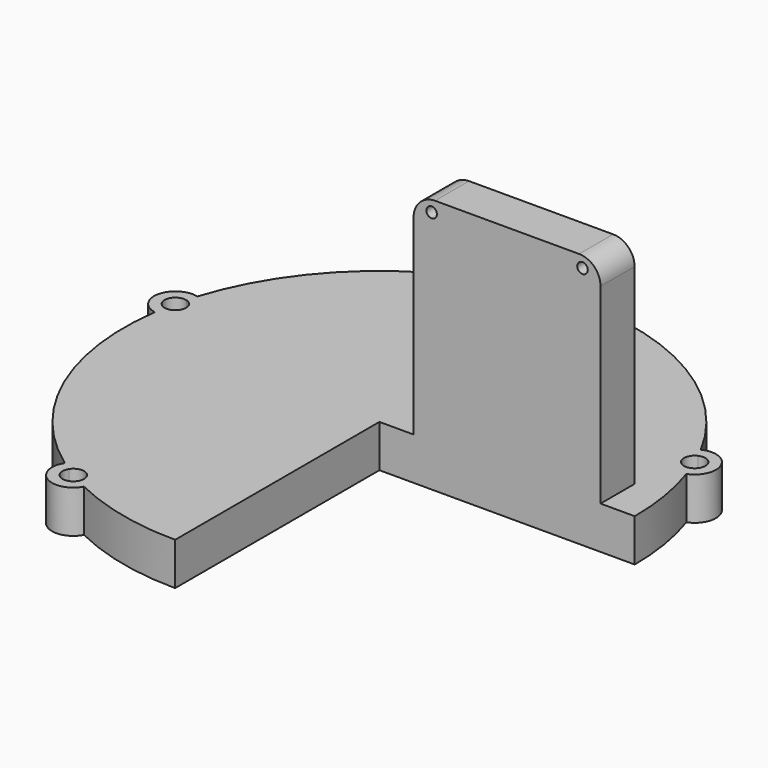
from build123d import *

# Parameters (mm, degrees)
F1_DEPTH = 3.175
F0_W     = 13.9460621893
F0_H     = 3.175
F2_DEPTH = 19.05
F4_R     = 1.6002
F5_D     = 0.7874


with BuildPart() as f1:
    # F0 (on Top) → F1 (new body)
    with BuildSketch(Plane.XY):
        with BuildLine():
            ThreePointArc((-11.0640807489, -15.5076954182), (-10.5456846438, -17.739643222), (-8.337274974, -17.1286994839))
            ThreePointArc((-8.337274974, -17.1286994839), (-8.6896408656, -16.9526588365), (-9.0382916673, -16.7693704037))
            ThreePointArc((-9.0382916673, -16.7693704037), (-10.1433262143, -17.0628076037), (-10.4134929787, -15.9518545625))
            ThreePointArc((-10.4134929787, -15.9518545625), (-10.7410829362, -15.7331381917), (-11.0640807489, -15.5076954182))
        make_face()
        with BuildLine():
            ThreePointArc((-18.1676837587, 5.7304246652), (-20.1301990553, 4.5476908695), (-18.8667209135, 2.6361604601))
            ThreePointArc((-18.8667209135, 2.6361604601), (-18.8081833575, 3.0256798892), (-18.7416047219, 3.4139057466))
            ThreePointArc((-18.7416047219, 3.4139057466), (-19.3621545375, 4.3741789717), (-18.3890615299, 4.9744262032))
            ThreePointArc((-18.3890615299, 4.9744262032), (-18.2822807642, 5.3535698425), (-18.1676837587, 5.7304246652))
        make_face()
        with BuildLine():
            ThreePointArc((-0.9515720679, 19.0262190306), (-0.557987968, 19.0418263154), (-0.1641653109, 19.0492926312))
            ThreePointArc((-0.1641653109, 19.0492926312), (-1.8954625727, 20.5502707497), (-3.3229998068, 18.757936248))
            ThreePointArc((-3.3229998068, 18.757936248), (-2.934455716, 18.8226318471), (-2.5446570546, 18.8792801895))
            ThreePointArc((-2.5446570546, 18.8792801895), (-1.8231433853, 19.7661988811), (-0.9515720679, 19.0262190306))
        make_face()
        with BuildLine():
            ThreePointArc((17.8009576491, 6.7844238351), (17.9374252347, 6.4149260284), (18.0662240168, 6.0426856425))
            ThreePointArc((18.0662240168, 6.0426856425), (18.958738761, 8.1530749318), (16.8129940883, 8.9568817))
            ThreePointArc((16.8129940883, 8.9568817), (16.9945899865, 8.6073463501), (17.1689201725, 8.2541310937))
            ThreePointArc((17.1689201725, 8.2541310937), (17.9333659324, 8.1987289698), (18.3004742409, 7.5259153217))
            ThreePointArc((18.3004742409, 7.5259153217), (18.1639466917, 7.0788900287), (17.8009576491, 6.7844238351))
        make_face()
        with BuildLine():
            Line((0, -19.05), (0, 0))
            Line((0, 0), (2.5519689053, 0))
            Line((2.5519689053, 0), (2.5519689053, 3.175))
            Line((2.5519689053, 3.175), (16.4980310947, 3.175))
            Line((16.4980310947, 3.175), (16.4980310947, 0))
            Line((16.4980310947, 0), (19.05, 0))
            ThreePointArc((19.05, 0), (18.8024475471, 3.061121729), (18.0662240168, 6.0426856425))
            ThreePointArc((18.0662240168, 6.0426856425), (17.9374252347, 6.4149260284), (17.8009576491, 6.7844238351))
            ThreePointArc((17.8009576491, 6.7844238351), (16.7653585228, 7.2098268782), (17.1689201725, 8.2541310937))
            ThreePointArc((17.1689201725, 8.2541310937), (16.9945899865, 8.6073463501), (16.8129940883, 8.9568817))
            ThreePointArc((16.8129940883, 8.9568817), (9.7344781327, 16.3750552819), (-0.1641653109, 19.0492926312))
            ThreePointArc((-0.1641653109, 19.0492926312), (-0.557987968, 19.0418263154), (-0.9515720679, 19.0262190306))
            ThreePointArc((-0.9515720679, 19.0262190306), (-0.9500614951, 18.9978677335), (-0.9495577594, 18.969480692))
            ThreePointArc((-0.9495577594, 18.969480692), (-1.7044854564, 18.170656886), (-2.5446570546, 18.8792801895))
            ThreePointArc((-2.5446570546, 18.8792801895), (-2.934455716, 18.8226318471), (-3.3229998068, 18.757936248))
            ThreePointArc((-3.3229998068, 18.757936248), (-12.5654838561, 14.3182092268), (-18.1676837587, 5.7304246652))
            ThreePointArc((-18.1676837587, 5.7304246652), (-18.2822807642, 5.3535698425), (-18.3890615299, 4.9744262032))
            ThreePointArc((-18.3890615299, 4.9744262032), (-17.9515207228, 4.6908249859), (-17.7816222049, 4.1978684949))
            ThreePointArc((-17.7816222049, 4.1978684949), (-18.0756401917, 3.5781580739), (-18.7416047219, 3.4139057466))
            ThreePointArc((-18.7416047219, 3.4139057466), (-18.8081833575, 3.0256798892), (-18.8667209135, 2.6361604601))
            ThreePointArc((-18.8667209135, 2.6361604601), (-17.5003742409, -7.5259153217), (-11.0640807489, -15.5076954182))
            ThreePointArc((-11.0640807489, -15.5076954182), (-10.7410829362, -15.7331381917), (-10.4134929787, -15.9518545625))
            ThreePointArc((-10.4134929787, -15.9518545625), (-9.5143869792, -15.6058219661), (-8.9343781327, -16.3750552819))
            ThreePointArc((-8.9343781327, -16.3750552819), (-8.9607925373, -16.5789440003), (-9.0382916673, -16.7693704037))
            ThreePointArc((-9.0382916673, -16.7693704037), (-8.6896408656, -16.9526588365), (-8.337274974, -17.1286994839))
            ThreePointArc((-8.337274974, -17.1286994839), (-4.2778952087, -18.5634617619), (0, -19.05))
        make_face()
    extrude(amount=F1_DEPTH)

    # F0 (on Top) → F2 (join)
    with BuildSketch(Plane.XY):
        with Locations((9.525, 1.5875)):
            Rectangle(F0_W, F0_H)
    extrude(amount=F2_DEPTH)

    # F4
    f4_edges = [f1.edges().sort_by_distance(p)[0] for p in [
        (2.551969, 1.5875, 19.05),
        (16.498031, 1.5875, 19.05),
    ]]
    fillet(f4_edges, radius=F4_R)

    # F5 (through all)
    with Locations(Plane(origin=(0, 3.175, 0), x_dir=(-1, 0, 0), z_dir=(0, 1, 0))):
        with Locations((-3.8969237357, 18.2043871596), (-15.1530762643, 18.2043871596)):
            Hole(F5_D / 2)


solid = f1.part
